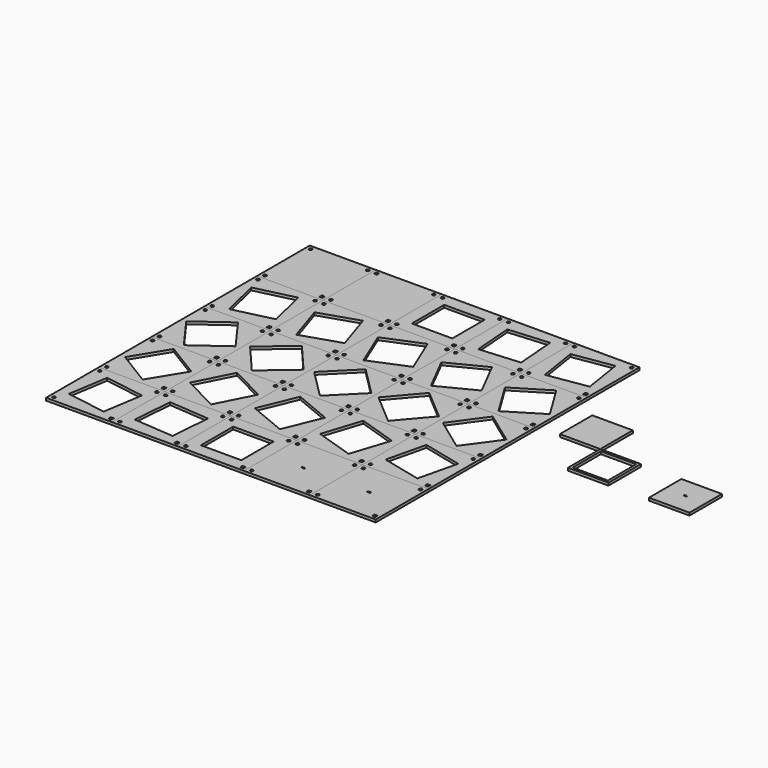
from build123d import *

# Parameters (mm, degrees)
F0_W     = 75
F0_H     = 75
F0_R     = 1.75
F0_W_2   = 3.5
F0_H_2   = 3.5
F0_W_3   = 46
F0_H_3   = 46
F0_H_4   = 1.5
F0_W_4   = 46.1
F0_H_5   = 46.1
F0_W_5   = 40.1
F0_H_6   = 40.1
F1_DEPTH = 3
F2_DEPTH = 3


with BuildPart() as f1:
    # F0 (on Top) → F1 (new body)
    with BuildSketch(Plane.XY):
        with Locations((-254.7, 150)):
            Rectangle(F0_W, F0_H)
        with Locations((-287.2, 117.5)):
            Circle(F0_R, mode=Mode.SUBTRACT)
        with Locations((-222.2, 117.5)):
            Rectangle(F0_W_2, F0_H_2, mode=Mode.SUBTRACT)
        with Locations((-287.2, 182.5)):
            Circle(F0_R, mode=Mode.SUBTRACT)
        with Locations((-222.2, 182.5)):
            Circle(F0_R, mode=Mode.SUBTRACT)
        with Locations((-179.7, 75)):
            Rectangle(F0_W, F0_H)
        with Locations((-212.2, 42.5)):
            Circle(F0_R, mode=Mode.SUBTRACT)
        with Locations((-147.2, 42.5)):
            Rectangle(F0_W_2, F0_H_2, mode=Mode.SUBTRACT)
        Polygon((-150.718309, 60.233091), (-194.466909, 46.018309), (-208.681691, 89.766909), (-164.933091, 103.981691), align=None, mode=Mode.SUBTRACT)
        with Locations((-212.2, 107.5)):
            Circle(F0_R, mode=Mode.SUBTRACT)
        with Locations((-147.2, 107.5)):
            Circle(F0_R, mode=Mode.SUBTRACT)
        with Locations((-104.7, 150)):
            Rectangle(F0_W, F0_H)
        with Locations((-137.2, 117.5)):
            Circle(F0_R, mode=Mode.SUBTRACT)
        with Locations((-72.2, 117.5)):
            Rectangle(F0_W_2, F0_H_2, mode=Mode.SUBTRACT)
        with Locations((-104.7, 150)):
            Rectangle(F0_W_3, F0_H_3, mode=Mode.SUBTRACT)
        with Locations((-137.2, 182.5)):
            Circle(F0_R, mode=Mode.SUBTRACT)
        with Locations((-72.2, 182.5)):
            Circle(F0_R, mode=Mode.SUBTRACT)
        with Locations((-29.7, 75)):
            Rectangle(F0_W, F0_H)
        with Locations((-62.2, 42.5)):
            Circle(F0_R, mode=Mode.SUBTRACT)
        Polygon((1.234932, 64.948631), (-39.751369, 44.065068), (-60.634932, 85.051369), (-19.648631, 105.934932), align=None, mode=Mode.SUBTRACT)
        with Locations((-62.2, 107.5)):
            Circle(F0_R, mode=Mode.SUBTRACT)
        with Locations((2.8, 42.5)):
            Rectangle(F0_W_2, F0_H_2, mode=Mode.SUBTRACT)
        with Locations((2.8, 107.5)):
            Circle(F0_R, mode=Mode.SUBTRACT)
        with Locations((45.3, 150)):
            Rectangle(F0_W, F0_H)
        with Locations((12.8, 117.5)):
            Circle(F0_R, mode=Mode.SUBTRACT)
        with Locations((77.8, 117.5)):
            Rectangle(F0_W_2, F0_H_2, mode=Mode.SUBTRACT)
        Polygon((71.614825, 130.881161), (26.181161, 123.685175), (18.985175, 169.118839), (64.418839, 176.314825), align=None, mode=Mode.SUBTRACT)
        with Locations((12.8, 182.5)):
            Circle(F0_R, mode=Mode.SUBTRACT)
        with Locations((77.8, 182.5)):
            Circle(F0_R, mode=Mode.SUBTRACT)
        with Locations((-254.7, 0)):
            Rectangle(F0_W, F0_H)
        with Locations((-287.2, -32.5)):
            Circle(F0_R, mode=Mode.SUBTRACT)
        with Locations((-222.2, -32.5)):
            Rectangle(F0_W_2, F0_H_2, mode=Mode.SUBTRACT)
        Polygon((-222.573548, -5.08833), (-259.78833, -32.126452), (-286.826452, 5.08833), (-249.61167, 32.126452), align=None, mode=Mode.SUBTRACT)
        with Locations((-287.2, 32.5)):
            Circle(F0_R, mode=Mode.SUBTRACT)
        with Locations((-222.2, 32.5)):
            Circle(F0_R, mode=Mode.SUBTRACT)
        with Locations((-104.7, 0)):
            Rectangle(F0_W, F0_H)
        with Locations((-137.2, -32.5)):
            Circle(F0_R, mode=Mode.SUBTRACT)
        with Locations((-72.2, -32.5)):
            Rectangle(F0_W_2, F0_H_2, mode=Mode.SUBTRACT)
        Polygon((-72.173088, 0), (-104.7, -32.526912), (-137.226912, 0), (-104.7, 32.526912), align=None, mode=Mode.SUBTRACT)
        with Locations((-137.2, 32.5)):
            Circle(F0_R, mode=Mode.SUBTRACT)
        with Locations((-72.2, 32.5)):
            Circle(F0_R, mode=Mode.SUBTRACT)
        with Locations((45.3, 0)):
            Rectangle(F0_W, F0_H)
        with Locations((12.8, -32.5)):
            Circle(F0_R, mode=Mode.SUBTRACT)
        with Locations((77.8, -32.5)):
            Rectangle(F0_W_2, F0_H_2, mode=Mode.SUBTRACT)
        Polygon((77.426452, 5.08833), (50.38833, -32.126452), (13.173548, -5.08833), (40.21167, 32.126452), align=None, mode=Mode.SUBTRACT)
        with Locations((12.8, 32.5)):
            Circle(F0_R, mode=Mode.SUBTRACT)
        with Locations((77.8, 32.5)):
            Circle(F0_R, mode=Mode.SUBTRACT)
        with Locations((-179.7, -75)):
            Rectangle(F0_W, F0_H)
        with Locations((-212.2, -107.5)):
            Circle(F0_R, mode=Mode.SUBTRACT)
        with Locations((-147.2, -107.5)):
            Rectangle(F0_W_2, F0_H_2, mode=Mode.SUBTRACT)
        Polygon((-148.765068, -64.948631), (-169.648631, -105.934932), (-210.634932, -85.051369), (-189.751369, -44.065068), align=None, mode=Mode.SUBTRACT)
        with Locations((-212.2, -42.5)):
            Circle(F0_R, mode=Mode.SUBTRACT)
        with Locations((-147.2, -42.5)):
            Circle(F0_R, mode=Mode.SUBTRACT)
        with Locations((-29.7, -75)):
            Rectangle(F0_W, F0_H)
        with Locations((-62.2, -107.5)):
            Circle(F0_R, mode=Mode.SUBTRACT)
        Polygon((-0.718309, -60.233091), (-14.933091, -103.981691), (-58.681691, -89.766909), (-44.466909, -46.018309), align=None, mode=Mode.SUBTRACT)
        with Locations((-62.2, -42.5)):
            Circle(F0_R, mode=Mode.SUBTRACT)
        with Locations((2.8, -107.5)):
            Rectangle(F0_W_2, F0_H_2, mode=Mode.SUBTRACT)
        with Locations((2.8, -42.5)):
            Circle(F0_R, mode=Mode.SUBTRACT)
        with Locations((-254.7, -150)):
            Rectangle(F0_W, F0_H)
        with Locations((-287.2, -182.5)):
            Circle(F0_R, mode=Mode.SUBTRACT)
        with Locations((-222.2, -182.5)):
            Rectangle(F0_W_2, F0_H_2, mode=Mode.SUBTRACT)
        Polygon((-228.385175, -130.881161), (-235.581161, -176.314825), (-281.014825, -169.118839), (-273.818839, -123.685175), align=None, mode=Mode.SUBTRACT)
        with Locations((-287.2, -117.5)):
            Circle(F0_R, mode=Mode.SUBTRACT)
        with Locations((-222.2, -117.5)):
            Circle(F0_R, mode=Mode.SUBTRACT)
        with Locations((-104.7, -150)):
            Rectangle(F0_W, F0_H)
        with Locations((-137.2, -182.5)):
            Circle(F0_R, mode=Mode.SUBTRACT)
        with Locations((-104.7, -150)):
            Rectangle(F0_W_3, F0_H_3, mode=Mode.SUBTRACT)
        with Locations((-72.2, -182.5)):
            Rectangle(F0_W_2, F0_H_2, mode=Mode.SUBTRACT)
        with Locations((-137.2, -117.5)):
            Circle(F0_R, mode=Mode.SUBTRACT)
        with Locations((-72.2, -117.5)):
            Circle(F0_R, mode=Mode.SUBTRACT)
        with Locations((45.3, -150)):
            Rectangle(F0_W, F0_H)
        with Locations((12.8, -182.5)):
            Circle(F0_R, mode=Mode.SUBTRACT)
        with Locations((45.3, -150)):
            Rectangle(F0_W_2, F0_H_4, mode=Mode.SUBTRACT)
        with Locations((77.8, -182.5)):
            Rectangle(F0_W_2, F0_H_2, mode=Mode.SUBTRACT)
        with Locations((12.8, -117.5)):
            Circle(F0_R, mode=Mode.SUBTRACT)
        with Locations((77.8, -117.5)):
            Circle(F0_R, mode=Mode.SUBTRACT)
        with Locations((130.85, 66.05)):
            Rectangle(F0_W_4, F0_H_5)
        with Locations((176.95, 19.95)):
            Rectangle(F0_W_4, F0_H_5)
        with Locations((176.95, 19.95)):
            Rectangle(F0_W_5, F0_H_6, mode=Mode.SUBTRACT)
        with Locations((269.15, 19.95)):
            Rectangle(F0_W_4, F0_H_5)
        with Locations((269.15, 19.95)):
            Rectangle(F0_W_2, F0_H_4, mode=Mode.SUBTRACT)
    extrude(amount=F1_DEPTH)


with BuildPart() as f2:
    # F0 (on Top) → F2 (new body)
    with BuildSketch(Plane.XY):
        with Locations((-179.7, 150)):
            Rectangle(F0_W, F0_H)
        with Locations((-212.2, 117.5)):
            Circle(F0_R, mode=Mode.SUBTRACT)
        with Locations((-147.2, 117.5)):
            Rectangle(F0_W_2, F0_H_2, mode=Mode.SUBTRACT)
        with Locations((-212.2, 182.5)):
            Circle(F0_R, mode=Mode.SUBTRACT)
        with Locations((-147.2, 182.5)):
            Circle(F0_R, mode=Mode.SUBTRACT)
        with Locations((-29.7, 150)):
            Rectangle(F0_W, F0_H)
        with Locations((-62.2, 117.5)):
            Circle(F0_R, mode=Mode.SUBTRACT)
        Polygon((-4.966342, 128.875461), (-50.824539, 125.266342), (-54.433658, 171.124539), (-8.575461, 174.733658), align=None, mode=Mode.SUBTRACT)
        with Locations((-62.2, 182.5)):
            Circle(F0_R, mode=Mode.SUBTRACT)
        with Locations((2.8, 117.5)):
            Rectangle(F0_W_2, F0_H_2, mode=Mode.SUBTRACT)
        with Locations((2.8, 182.5)):
            Circle(F0_R, mode=Mode.SUBTRACT)
        with Locations((-254.7, 75)):
            Rectangle(F0_W, F0_H)
        with Locations((-287.2, 42.5)):
            Circle(F0_R, mode=Mode.SUBTRACT)
        with Locations((-222.2, 42.5)):
            Rectangle(F0_W_2, F0_H_2, mode=Mode.SUBTRACT)
        Polygon((-226.966248, 58.004735), (-271.695265, 47.266248), (-282.433752, 91.995265), (-237.704735, 102.733752), align=None, mode=Mode.SUBTRACT)
        with Locations((-287.2, 107.5)):
            Circle(F0_R, mode=Mode.SUBTRACT)
        with Locations((-222.2, 107.5)):
            Circle(F0_R, mode=Mode.SUBTRACT)
        with Locations((-104.7, 75)):
            Rectangle(F0_W, F0_H)
        with Locations((-137.2, 42.5)):
            Circle(F0_R, mode=Mode.SUBTRACT)
        with Locations((-72.2, 42.5)):
            Rectangle(F0_W_2, F0_H_2, mode=Mode.SUBTRACT)
        Polygon((-74.649052, 62.55249), (-117.14751, 44.949052), (-134.750948, 87.44751), (-92.25249, 105.050948), align=None, mode=Mode.SUBTRACT)
        with Locations((-137.2, 107.5)):
            Circle(F0_R, mode=Mode.SUBTRACT)
        with Locations((-72.2, 107.5)):
            Circle(F0_R, mode=Mode.SUBTRACT)
        with Locations((45.3, 75)):
            Rectangle(F0_W, F0_H)
        with Locations((12.8, 42.5)):
            Circle(F0_R, mode=Mode.SUBTRACT)
        with Locations((77.8, 42.5)):
            Rectangle(F0_W_2, F0_H_2, mode=Mode.SUBTRACT)
        Polygon((76.928191, 67.406743), (37.706743, 43.371809), (13.671809, 82.593257), (52.893257, 106.628191), align=None, mode=Mode.SUBTRACT)
        with Locations((12.8, 107.5)):
            Circle(F0_R, mode=Mode.SUBTRACT)
        with Locations((77.8, 107.5)):
            Circle(F0_R, mode=Mode.SUBTRACT)
        with Locations((-179.7, 0)):
            Rectangle(F0_W, F0_H)
        with Locations((-212.2, -32.5)):
            Circle(F0_R, mode=Mode.SUBTRACT)
        with Locations((-147.2, -32.5)):
            Rectangle(F0_W_2, F0_H_2, mode=Mode.SUBTRACT)
        Polygon((-147.273358, -2.552032), (-182.252032, -32.426642), (-212.126642, 2.552032), (-177.147968, 32.426642), align=None, mode=Mode.SUBTRACT)
        with Locations((-212.2, 32.5)):
            Circle(F0_R, mode=Mode.SUBTRACT)
        with Locations((-147.2, 32.5)):
            Circle(F0_R, mode=Mode.SUBTRACT)
        with Locations((-29.7, 0)):
            Rectangle(F0_W, F0_H)
        with Locations((-62.2, -32.5)):
            Circle(F0_R, mode=Mode.SUBTRACT)
        with Locations((2.8, -32.5)):
            Rectangle(F0_W_2, F0_H_2, mode=Mode.SUBTRACT)
        Polygon((2.726642, 2.552032), (-27.147968, -32.426642), (-62.126642, -2.552032), (-32.252032, 32.426642), align=None, mode=Mode.SUBTRACT)
        with Locations((-62.2, 32.5)):
            Circle(F0_R, mode=Mode.SUBTRACT)
        with Locations((2.8, 32.5)):
            Circle(F0_R, mode=Mode.SUBTRACT)
        with Locations((-254.7, -75)):
            Rectangle(F0_W, F0_H)
        with Locations((-287.2, -107.5)):
            Circle(F0_R, mode=Mode.SUBTRACT)
        with Locations((-222.2, -107.5)):
            Rectangle(F0_W_2, F0_H_2, mode=Mode.SUBTRACT)
        Polygon((-223.071809, -67.406743), (-247.106743, -106.628191), (-286.328191, -82.593257), (-262.293257, -43.371809), align=None, mode=Mode.SUBTRACT)
        with Locations((-287.2, -42.5)):
            Circle(F0_R, mode=Mode.SUBTRACT)
        with Locations((-222.2, -42.5)):
            Circle(F0_R, mode=Mode.SUBTRACT)
        with Locations((-104.7, -75)):
            Rectangle(F0_W, F0_H)
        with Locations((-137.2, -107.5)):
            Circle(F0_R, mode=Mode.SUBTRACT)
        with Locations((-72.2, -107.5)):
            Rectangle(F0_W_2, F0_H_2, mode=Mode.SUBTRACT)
        Polygon((-74.649052, -62.55249), (-92.25249, -105.050948), (-134.750948, -87.44751), (-117.14751, -44.949052), align=None, mode=Mode.SUBTRACT)
        with Locations((-137.2, -42.5)):
            Circle(F0_R, mode=Mode.SUBTRACT)
        with Locations((-72.2, -42.5)):
            Circle(F0_R, mode=Mode.SUBTRACT)
        with Locations((45.3, -75)):
            Rectangle(F0_W, F0_H)
        with Locations((12.8, -107.5)):
            Circle(F0_R, mode=Mode.SUBTRACT)
        with Locations((77.8, -107.5)):
            Rectangle(F0_W_2, F0_H_2, mode=Mode.SUBTRACT)
        Polygon((73.033752, -58.004735), (62.295265, -102.733752), (17.566248, -91.995265), (28.304735, -47.266248), align=None, mode=Mode.SUBTRACT)
        with Locations((12.8, -42.5)):
            Circle(F0_R, mode=Mode.SUBTRACT)
        with Locations((77.8, -42.5)):
            Circle(F0_R, mode=Mode.SUBTRACT)
        with Locations((-179.7, -150)):
            Rectangle(F0_W, F0_H)
        with Locations((-212.2, -182.5)):
            Circle(F0_R, mode=Mode.SUBTRACT)
        with Locations((-147.2, -182.5)):
            Rectangle(F0_W_2, F0_H_2, mode=Mode.SUBTRACT)
        Polygon((-154.966342, -128.875461), (-158.575461, -174.733658), (-204.433658, -171.124539), (-200.824539, -125.266342), align=None, mode=Mode.SUBTRACT)
        with Locations((-212.2, -117.5)):
            Circle(F0_R, mode=Mode.SUBTRACT)
        with Locations((-147.2, -117.5)):
            Circle(F0_R, mode=Mode.SUBTRACT)
        with Locations((-29.7, -150)):
            Rectangle(F0_W, F0_H)
        with Locations((-62.2, -182.5)):
            Circle(F0_R, mode=Mode.SUBTRACT)
        with Locations((-29.7, -150)):
            Rectangle(F0_W_2, F0_H_4, mode=Mode.SUBTRACT)
        with Locations((-62.2, -117.5)):
            Circle(F0_R, mode=Mode.SUBTRACT)
        with Locations((2.8, -182.5)):
            Rectangle(F0_W_2, F0_H_2, mode=Mode.SUBTRACT)
        with Locations((2.8, -117.5)):
            Circle(F0_R, mode=Mode.SUBTRACT)
    extrude(amount=F2_DEPTH)


solid = Compound([f1.part, f2.part])
